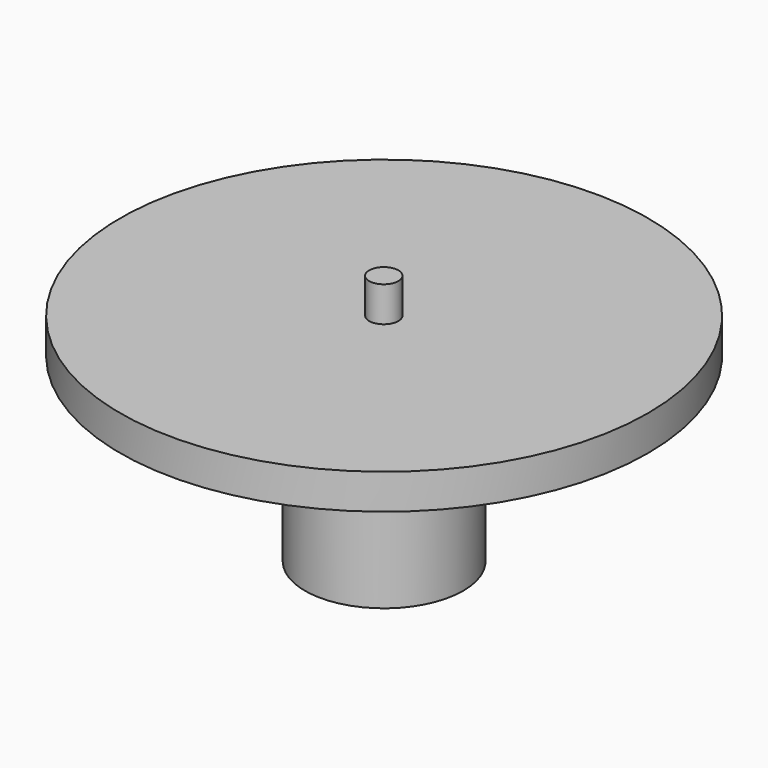
from build123d import *

# Parameters (mm, degrees)
F0_R      = 11.43
F2_DEPTH  = 11.43
F1_R      = 7.62
F3_DEPTH  = 12.7
F4_R      = 1.27
F5_DEPTH  = 19.05
F6_W      = 14.191549
F6_H      = 6.976674
F7_DEPTH  = 12.7
F10_R     = 2.106308
F11_DEPTH = 10.16
F13_R     = 38.1
F14_DEPTH = 2.54


with BuildPart() as f2:
    # F0 (on Top) → F2 (new body, symmetric)
    with BuildSketch(Plane.XY):
        Circle(F0_R)
    extrude(amount=F2_DEPTH, both=True)


with BuildPart() as f3:
    # F1 (on Top) → F3 (new body, symmetric)
    with BuildSketch(Plane.XY):
        Circle(F1_R)
    extrude(amount=F3_DEPTH, both=True)


with BuildPart() as f5:
    # F4 (on Top) → F5 (new body, symmetric)
    with BuildSketch(Plane.XY):
        Circle(F4_R)
    extrude(amount=F5_DEPTH, both=True)


with BuildPart() as f7:
    # F6 (on Right) → F7 (new body, symmetric)
    with BuildSketch(Plane.YZ):
        with Locations((-48.623311, -2.699074)):
            Rectangle(F6_W, F6_H)
    extrude(amount=F7_DEPTH, both=True)


with BuildPart() as f7_1:
    # F8: moved
    add(f7.part.moved(Location((0, 50.8, -14.478))))


with BuildPart() as f5_1:
    add(f5.part)

    # F9: cut F7
    add(f7_1.part, mode=Mode.SUBTRACT)


with BuildPart() as f11:
    # F10 (on Top) → F11 (new body)
    with BuildSketch(Plane.XY):
        with Locations((10.8943, 5.285846)):
            Circle(F10_R)
    extrude(amount=F11_DEPTH)


with BuildPart() as f11_1:
    # F12: moved
    add(f11.part.moved(Location((-10.922, -5.3086, 10.668))))


with BuildPart() as f14:
    # F13 (on Top) → F14 (new body, symmetric)
    with BuildSketch(Plane.XY):
        Circle(F13_R)
    extrude(amount=F14_DEPTH, both=True)


with BuildPart() as f14_1:
    # F15: moved
    add(f14.part.moved(Location((0, 0, 13.208))))


with BuildPart() as f14_2:
    # F16: moved
    add(f14_1.part.moved(Location((0, 0, 4.064))))


with BuildPart() as f11_2:
    # F16: moved
    add(f11_1.part.moved(Location((0, 0, 4.064))))


solid = Compound([f2.part, f3.part, f5_1.part, f14_2.part, f11_2.part])
